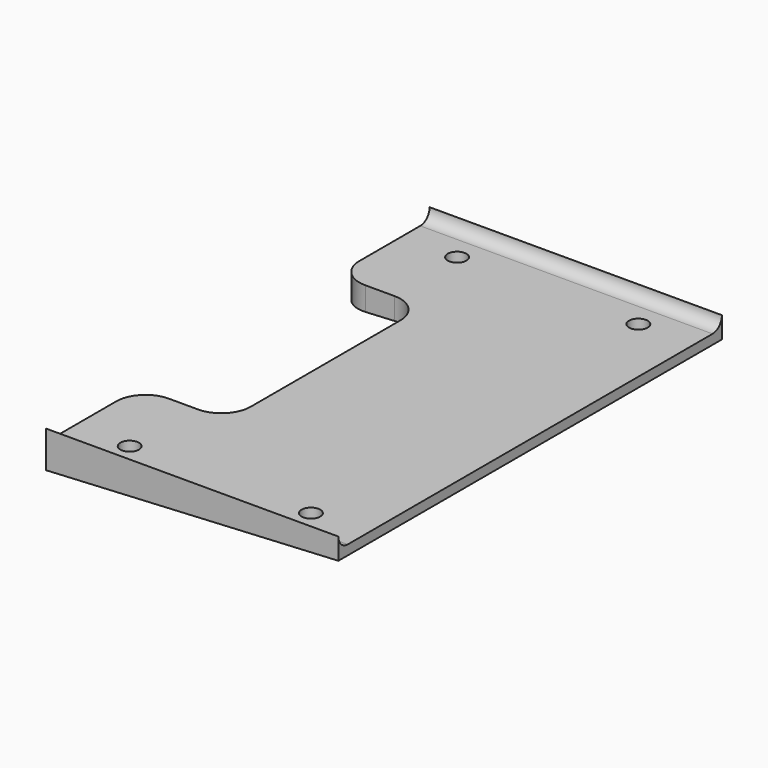
from build123d import *

# Parameters (mm, degrees)
CYLINDER397_R          = 1.6
CYLINDER397_DEPTH      = 10
CYLINDER398_R          = 1.6
CYLINDER398_DEPTH      = 10
CYLINDER399_R          = 1.6
CYLINDER399_DEPTH      = 10
CYLINDER400_R          = 1.6
CYLINDER400_DEPTH      = 10
BOX271_W               = 15
BOX271_H               = 42
BOX271_DEPTH           = 20
BOX270_W               = 50
BOX270_H               = 82
BOX270_DEPTH           = 20
FILLET104_R            = 2
BOX268_W               = 58
BOX268_H               = 82
BOX268_DEPTH           = 10
BOX268_PLACEMENT_ANGLE = 3
BOX269_W               = 50
BOX269_H               = 82
BOX269_DEPTH           = 22
FILLET105_R            = 5


with BuildPart() as cylinder397:
    # Cylinder397 → Cylinder397 (new body)
    with BuildSketch(Plane(origin=(320, -4, -6), x_dir=(1, 0, 0), z_dir=(0, 0, 1))):
        Circle(CYLINDER397_R)
    extrude(amount=CYLINDER397_DEPTH)


with BuildPart() as fusion344:
    # Cylinder398 → Cylinder398 (new body)
    with BuildSketch(Plane(origin=(320, 66, -6), x_dir=(1, 0, 0), z_dir=(0, 0, 1))):
        Circle(CYLINDER398_R)
    extrude(amount=CYLINDER398_DEPTH)

    # Fusion344: union Cylinder397
    add(cylinder397.part)


with BuildPart() as fusion344_1:
    # Fusion344 placement: moved
    add(fusion344.part.moved(Location((2, 0, 0))))


with BuildPart() as cylinder399:
    # Cylinder399 → Cylinder399 (new body)
    with BuildSketch(Plane(origin=(320, -4, -6), x_dir=(1, 0, 0), z_dir=(0, 0, 1))):
        Circle(CYLINDER399_R)
    extrude(amount=CYLINDER399_DEPTH)


with BuildPart() as fusion346:
    # Cylinder400 → Cylinder400 (new body)
    with BuildSketch(Plane(origin=(320, 66, -6), x_dir=(1, 0, 0), z_dir=(0, 0, 1))):
        Circle(CYLINDER400_R)
    extrude(amount=CYLINDER400_DEPTH)

    # Fusion345: union Cylinder399
    add(cylinder399.part)


with BuildPart() as fusion346_1:
    # Fusion345 placement: moved
    add(fusion346.part.moved(Location((33, 0, 0))))

    # Fusion346: union Fusion344
    add(fusion344_1.part)


with BuildPart() as cube351:
    # Box271 → Box271 (new body)
    with BuildSketch(Plane(origin=(312.5, 10, -5), x_dir=(1, 0, 0), z_dir=(0, 0, 1))):
        with Locations((7.5, 21)):
            Rectangle(BOX271_W, BOX271_H)
    extrude(amount=BOX271_DEPTH)


with BuildPart() as fillet104:
    # Box270 → Box270 (new body)
    with BuildSketch(Plane(origin=(312.5, 0, 0), x_dir=(1, 0, 0), z_dir=(0, 0, 1))):
        with Locations((25, 41)):
            Rectangle(BOX270_W, BOX270_H)
    extrude(amount=BOX270_DEPTH)

    # Fillet104
    fillet104_edges = [fillet104.edges().sort_by_distance(p)[0] for p in [
        (337.5, 0, 0),
        (337.5, 82, 0),
    ]]
    fillet(fillet104_edges, radius=FILLET104_R)


with BuildPart() as fillet104_1:
    # Fillet104 placement: moved
    add(fillet104.part.moved(Location((0, -10, 0))))


with BuildPart() as cube348:
    # Box268 → Box268 (new body)
    with BuildSketch(Plane.XY):
        with Locations((29, 41)):
            Rectangle(BOX268_W, BOX268_H)
    extrude(amount=BOX268_DEPTH)


with BuildPart() as cube348_1:
    # Box268 placement: moved
    add(cube348.part.moved(Location((308.5, -10, -14.5))).rotate(Axis((308.5, -10, -14.5), (0, -1, 0)), BOX268_PLACEMENT_ANGLE))


with BuildPart() as battery_box_holder_wide:
    # Box269 → Box269 (new body)
    with BuildSketch(Plane(origin=(312.5, -10, -5), x_dir=(1, 0, 0), z_dir=(0, 0, 1))):
        with Locations((25, 41)):
            Rectangle(BOX269_W, BOX269_H)
    extrude(amount=BOX269_DEPTH)

    # Cut281: cut Cube348
    add(cube348_1.part, mode=Mode.SUBTRACT)

    # Cut282: cut Fillet104
    add(fillet104_1.part, mode=Mode.SUBTRACT)

    # Cut283: cut Cube351
    add(cube351.part, mode=Mode.SUBTRACT)

    # Cut284: cut Fusion346
    add(fusion346_1.part, mode=Mode.SUBTRACT)

    # Fillet105
    fillet105_edges = [battery_box_holder_wide.edges().sort_by_distance(p)[0] for p in [
        (312.5, 10, -2.138323),
        (327.5, 10, -1.745264),
        (327.5, 52, -1.745264),
        (312.5, 52, -2.138323),
    ]]
    fillet(fillet105_edges, radius=FILLET105_R)


solid = battery_box_holder_wide.part
